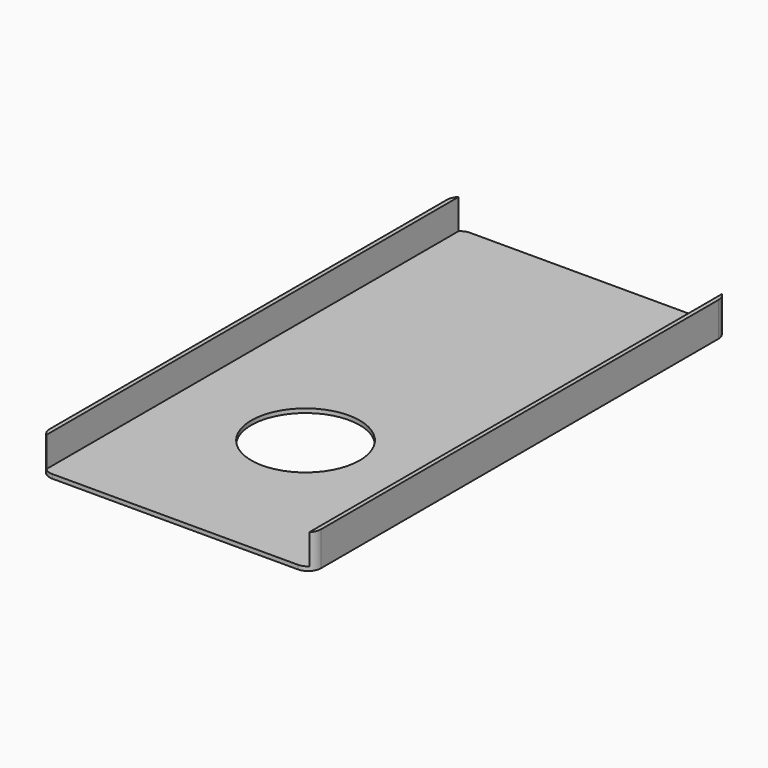
from build123d import *

# Parameters (mm, degrees)
F0_W     = 166.958615
F0_H     = 321.350471
F1_DEPTH = 21.082
F2_T     = -2.54
F3_R     = 7.971733
F4_R     = 7.971733
F5_R     = 33.346223
F6_DEPTH = 145.542


with BuildPart() as f1:
    # F0 (on Top) → F1 (new body)
    with BuildSketch(Plane.XY):
        with Locations((-46.53474, 4.859365)):
            Rectangle(F0_W, F0_H)
    extrude(amount=F1_DEPTH)

    # F2
    f2_openings = [f1.faces().sort_by_distance(p)[0] for p in [
        (-46.534739, 4.859366, 21.082),
        (-46.534739, -155.81587, 10.541),
        (-46.534739, 165.534601, 10.541),
    ]]
    offset(amount=F2_T, openings=f2_openings)

    # F3
    f3_edges = [f1.edges().sort_by_distance(p)[0] for p in [
        (-130.014047, 165.534601, 10.541),
        (36.944568, 165.534601, 10.541),
    ]]
    fillet(f3_edges, radius=F3_R)

    # F4
    f4_edges = [f1.edges().sort_by_distance(p)[0] for p in [
        (36.944568, -155.81587, 10.541),
        (-130.014047, -155.81587, 10.541),
    ]]
    fillet(f4_edges, radius=F4_R)

    # F5 (on face) → F6 (cut)
    with BuildSketch(Plane.XY.offset(2.54)):
        with Locations((-48.913874, -52.523661)):
            Circle(F5_R)
    extrude(amount=-F6_DEPTH, mode=Mode.SUBTRACT)


solid = f1.part
